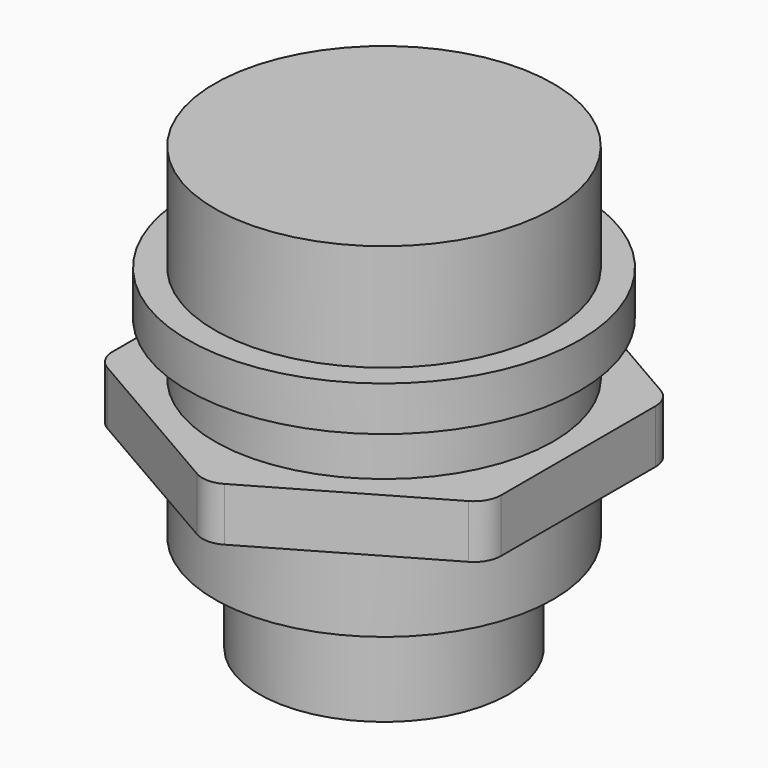
from build123d import *

# Parameters (mm, degrees)
F0_R          = 9.5
F1_DEPTH      = 8.5
F1_DEPTH_BACK = 10.8
F2_R          = 11
F3_DEPTH      = 2.5
F6_DEPTH      = 3
F7_R          = 7
F8_DEPTH      = 5.5


with BuildPart() as f1:
    # F0 (on Top) → F1 (new body, two sides)
    with BuildSketch(Plane.XY) as f1_sk:
        Circle(F0_R)
    extrude(amount=F1_DEPTH)
    extrude(f1_sk.sketch, amount=-F1_DEPTH_BACK)

    # F2 (on Top) → F3 (join)
    with BuildSketch(Plane.XY):
        Circle(F2_R)
    extrude(amount=F3_DEPTH)

    # F5 (on offset) → F6 (join)
    with BuildSketch(Plane.XY.offset(-3)):
        with BuildLine():
            Line((10.136474, 6.73394), (0.763526, 12.145414))
            ThreePointArc((0.763526, 12.145414), (0, 12.35), (-0.763526, 12.145414))
            Line((-0.763526, 12.145414), (-10.136474, 6.73394))
            ThreePointArc((-10.136474, 6.73394), (-10.695414, 6.175), (-10.9, 5.411474))
            Line((-10.9, 5.411474), (-10.9, -5.411474))
            ThreePointArc((-10.9, -5.411474), (-10.695414, -6.175), (-10.136474, -6.73394))
            Line((-10.136474, -6.73394), (-0.763526, -12.145414))
            ThreePointArc((-0.763526, -12.145414), (0, -12.35), (0.763526, -12.145414))
            Line((0.763526, -12.145414), (10.136474, -6.73394))
            ThreePointArc((10.136474, -6.73394), (10.695414, -6.175), (10.9, -5.411474))
            Line((10.9, -5.411474), (10.9, 5.411474))
            ThreePointArc((10.9, 5.411474), (10.695414, 6.175), (10.136474, 6.73394))
        make_face()
    extrude(amount=-F6_DEPTH)

    # F7 (on face) → F8 (join)
    with BuildSketch(Plane(origin=(0, 0, -10.8), x_dir=(1, 0, 0), z_dir=(0, 0, -1))):
        Circle(F7_R)
    extrude(amount=F8_DEPTH)


solid = f1.part
